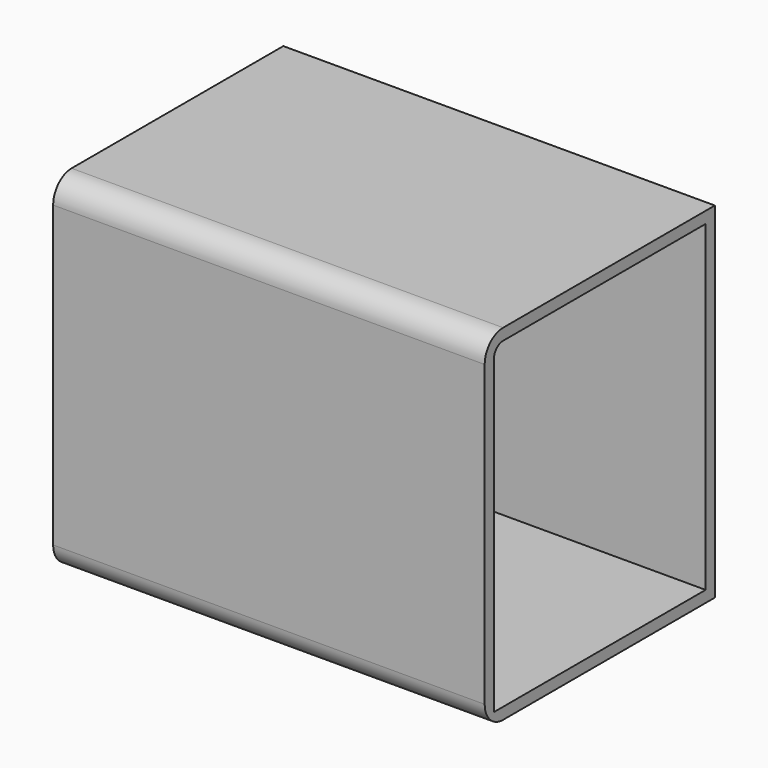
from build123d import *

# Parameters (mm, degrees)
F0_W     = 95.25
F0_H     = 63.5
F1_DEPTH = 76.2
F2_R     = 5.08
F3_T     = -2.54
F4_R     = 5.08


with BuildPart() as f1:
    # F0 (on Top) → F1 (new body)
    with BuildSketch(Plane.XY):
        with Locations((47.625, 31.75)):
            Rectangle(F0_W, F0_H)
    extrude(amount=F1_DEPTH)

    # F2
    f2_edges = [f1.edges().sort_by_distance(p)[0] for p in [
        (47.625, 0, 76.2),
    ]]
    fillet(f2_edges, radius=F2_R)

    # F3
    f3_openings = [f1.faces().sort_by_distance(p)[0] for p in [
        (95.25, 31.785081, 38.057643),
    ]]
    offset(amount=F3_T, openings=f3_openings)

    # F4
    f4_edges = [f1.edges().sort_by_distance(p)[0] for p in [
        (47.625, 0, 0),
    ]]
    fillet(f4_edges, radius=F4_R)


solid = f1.part
